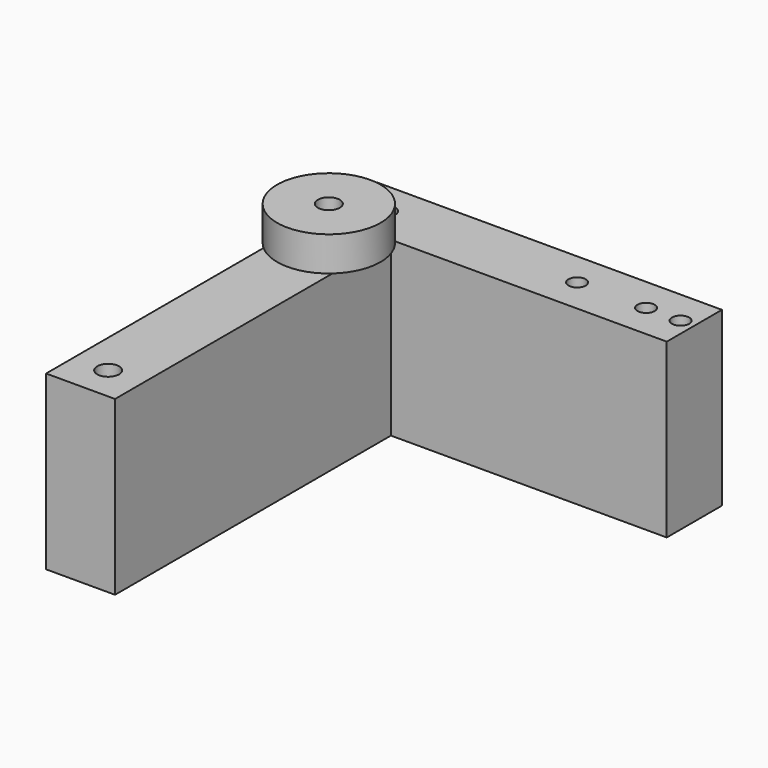
from build123d import *

# Parameters (mm, degrees)
F0_R     = 1.5875
F0_W     = 40
F0_H     = 10
F0_R_2   = 1.25
F1_DEPTH = 25
F2_R     = 7.5
F2_R_2   = 1.5875
F3_DEPTH = 5


with BuildPart() as f1:
    # F0 (on Top) → F1 (new body)
    with BuildSketch(Plane.XY):
        Polygon((-5, -30), (5, -30), (5, 0), (5, 20), (5, 30), (-5, 30), align=None)
        with Locations((0, -25)):
            Circle(F0_R, mode=Mode.SUBTRACT)
        with Locations((0, 15)):
            Circle(F0_R, mode=Mode.SUBTRACT)
        with Locations((0, 25)):
            Circle(F0_R, mode=Mode.SUBTRACT)
        with Locations((25, 25)):
            Rectangle(F0_W, F0_H)
        with Locations((28, 25)):
            Circle(F0_R_2, mode=Mode.SUBTRACT)
        with Locations((38, 25)):
            Circle(F0_R_2, mode=Mode.SUBTRACT)
        with Locations((43, 25)):
            Circle(F0_R_2, mode=Mode.SUBTRACT)
    extrude(amount=F1_DEPTH)


with BuildPart() as f3:
    # F2 (on face) → F3 (new body)
    with BuildSketch(Plane.XY.offset(25)):
        with Locations((0, 15)):
            Circle(F2_R)
        with Locations((0, 15)):
            Circle(F2_R_2, mode=Mode.SUBTRACT)
    extrude(amount=F3_DEPTH)


solid = Compound([f1.part, f3.part])
